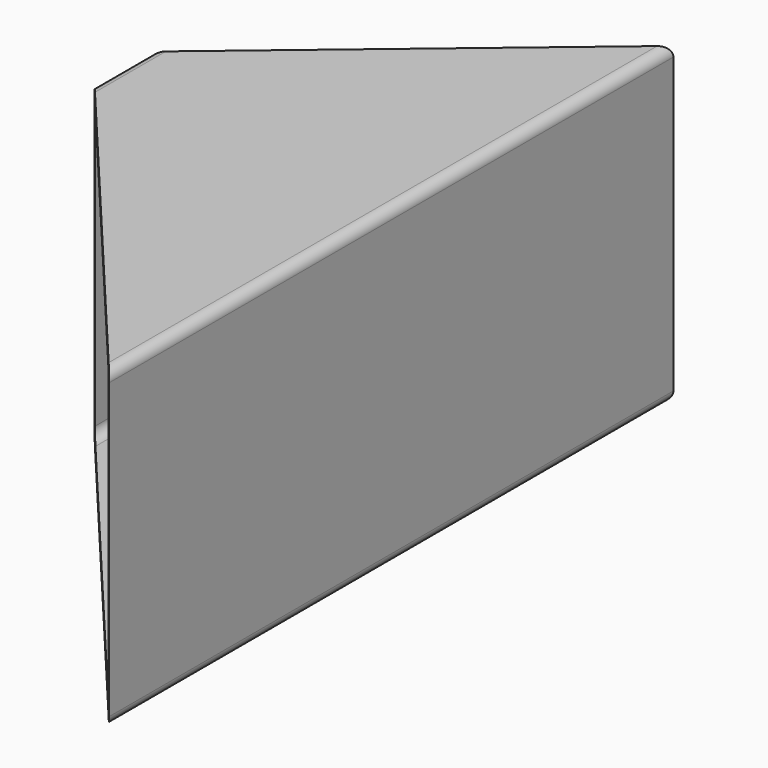
from build123d import *

# Parameters (mm, degrees)
F1_DEPTH      = 228.6
F3_DEPTH      = 50.801
F3_DEPTH_BACK = 50.801


with BuildPart() as f1:
    # F0 (on Front) → F1 (new body)
    with BuildSketch(Plane.XZ):
        with BuildLine():
            ThreePointArc((50.8, 47.625), (49.8700640303, 49.8700640303), (47.625, 50.8))
            Line((47.625, 50.8), (-47.625, 50.8))
            ThreePointArc((-47.625, 50.8), (-49.8700640303, 49.8700640303), (-50.8, 47.625))
            Line((-50.8, 47.625), (-50.8, -47.625))
            ThreePointArc((-50.8, -47.625), (-49.8700640303, -49.8700640303), (-47.625, -50.8))
            Line((-47.625, -50.8), (47.625, -50.8))
            ThreePointArc((47.625, -50.8), (49.8700640303, -49.8700640303), (50.8, -47.625))
            Line((50.8, -47.625), (50.8, 47.625))
        make_face()
        with BuildLine():
            Line((-44.45, 47.625), (44.45, 47.625))
            ThreePointArc((44.45, 47.625), (46.6950640303, 46.6950640303), (47.625, 44.45))
            Line((47.625, 44.45), (47.625, -44.45))
            ThreePointArc((47.625, -44.45), (46.6950640303, -46.6950640303), (44.45, -47.625))
            Line((44.45, -47.625), (-44.45, -47.625))
            ThreePointArc((-44.45, -47.625), (-46.6950640303, -46.6950640303), (-47.625, -44.45))
            Line((-47.625, -44.45), (-47.625, 44.45))
            ThreePointArc((-47.625, 44.45), (-46.6950640303, 46.6950640303), (-44.45, 47.625))
        make_face(mode=Mode.SUBTRACT)
    extrude(amount=F1_DEPTH)

    # F2 (on Top) → F3 (cut, two sides)
    with BuildSketch(Plane.XY) as f3_sk:
        Polygon((50.8, 0), (-50.8, 0), (-50.8, -85.2525225276), align=None)
        Polygon((-50.8, -107.5178349924), (-50.8, -228.6), (50.8, -228.6), align=None)
    extrude(amount=-F3_DEPTH, mode=Mode.SUBTRACT)
    extrude(f3_sk.sketch, amount=F3_DEPTH_BACK, mode=Mode.SUBTRACT)


solid = f1.part
